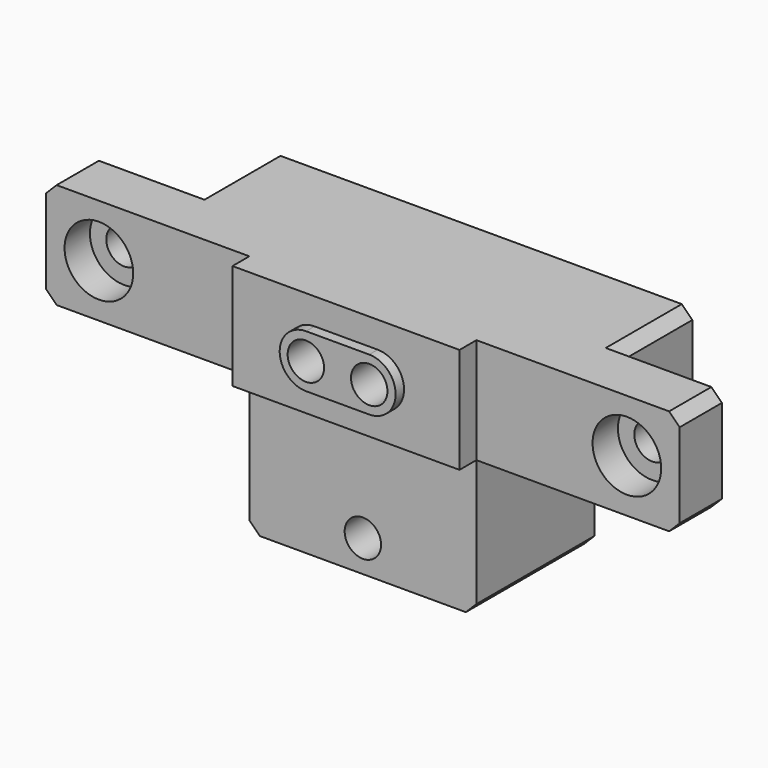
from build123d import *

# Parameters (mm, degrees)
F1_DEPTH  = 16
F2_W      = 21.5
F2_H      = 13
F2_W_2    = 19.25
F2_H_2    = 10
F3_DEPTH  = 2
F4_R      = 3.25
F5_DEPTH  = 3
F6_R      = 1.7
F7_R      = 1.7
F8_DEPTH  = 25
F9_W      = 10
F9_H      = 10
F9_R      = 1.7
F10_DEPTH = 9
F13_DEPTH = 17
F11_R     = 1.725
F14_DEPTH = 15
F15_R     = 1.725
F16_DEPTH = 25
F17_SIZE  = 1


with BuildPart() as f1:
    # F0 (on Front) → F1 (new body)
    with BuildSketch(Plane.XZ):
        Polygon((33.9145704359, 6.5189368035), (-26.0854295641, 6.5189368035), (-26.0854295641, -3.4810631965), (-6.8354295641, -3.4810631965), (-6.8354295641, -16.4810631965), (14.6645704359, -16.4810631965), (14.6645704359, -3.4810631965), (33.9145704359, -3.4810631965), align=None)
    extrude(amount=F1_DEPTH)

    # F2 (on face) → F3 (cut)
    with BuildSketch(Plane.XZ.offset(16)):
        with Locations((3.9145704359, -9.9810631965)):
            Rectangle(F2_W, F2_H)
        with Locations((-16.4604295641, 1.5189368035)):
            Rectangle(F2_W_2, F2_H_2)
        with Locations((24.2895704359, 1.5189368035)):
            Rectangle(F2_W_2, F2_H_2)
    extrude(amount=-F3_DEPTH, mode=Mode.SUBTRACT)

    # F4 (on face) → F5 (cut)
    with BuildSketch(Plane.XZ.offset(14)):
        with Locations((-21.0854295641, 1.5189368035)):
            Circle(F4_R)
        with Locations((28.9145704359, 1.5189368035)):
            Circle(F4_R)
    extrude(amount=-F5_DEPTH, mode=Mode.SUBTRACT)

    # F6 (on face) + F7 (on face) → F8 (cut)
    with BuildSketch(Plane.XZ.offset(11)):
        with Locations((-21.0854295641, 1.5189368035)):
            Circle(F6_R)
    with BuildSketch(Plane.XZ.offset(11)):
        with Locations((28.9145704359, 1.5189368035)):
            Circle(F7_R)
    extrude(amount=-F8_DEPTH, mode=Mode.SUBTRACT)

    # F9 (on face) → F10 (cut)
    with BuildSketch(Plane(origin=(0, 0, 0), x_dir=(-1, 0, 0), z_dir=(0, 1, 0))):
        with Locations((21.0854295641, 1.5189368035)):
            Rectangle(F9_W, F9_H)
        with Locations((21.0854295641, 1.5189368035)):
            Circle(F9_R, mode=Mode.SUBTRACT)
        with Locations((-28.9145704359, 1.5189368035)):
            Rectangle(F9_W, F9_H)
        with Locations((-28.9145704359, 1.5189368035)):
            Circle(F9_R, mode=Mode.SUBTRACT)
    extrude(amount=-F10_DEPTH, mode=Mode.SUBTRACT)

    # F12 (on Front) → F13 (join)
    with BuildSketch(Plane.XZ):
        with BuildLine():
            Line((0.9346461738, -0.9810631965), (6.9134989753, -0.9810631965))
            ThreePointArc((6.9134989753, -0.9810631965), (9.4134989753, 1.5189368035), (6.9134989753, 4.0189368035))
            Line((6.9134989753, 4.0189368035), (0.9346461738, 4.0189368035))
            ThreePointArc((0.9346461738, 4.0189368035), (-1.5653538262, 1.5189368035), (0.9346461738, -0.9810631965))
        make_face()
    extrude(amount=F13_DEPTH)

    # F11 (on face) → F14 (cut, symmetric)
    with BuildSketch(Plane.XZ.offset(14)):
        with Locations((0.9145704359, 1.5189368035)):
            Circle(F11_R)
        with Locations((6.9145704359, 1.5189368035)):
            Circle(F11_R)
    extrude(amount=F14_DEPTH, both=True, mode=Mode.SUBTRACT)

    # F15 (on face) → F16 (cut)
    with BuildSketch(Plane.XZ.offset(14)):
        with Locations((3.9145704359, -13.4810631965)):
            Circle(F15_R)
    extrude(amount=-F16_DEPTH, mode=Mode.SUBTRACT)

    # F17
    f17_edges = [f1.edges().sort_by_distance(p)[0] for p in [
        (-6.83543, -7, -16.481063),
        (14.66457, -7, -16.481063),
        (33.91457, -11.5, -3.481063),
        (33.91457, -11.5, 6.518937),
        (-26.08543, -11.5, 6.518937),
        (-26.08543, -11.5, -3.481063),
        (-16.08543, -4.5, -3.481063),
        (-16.08543, -4.5, 6.518937),
        (23.91457, -4.5, 6.518937),
        (23.91457, -4.5, -3.481063),
    ]]
    chamfer(f17_edges, length=F17_SIZE)


solid = f1.part
